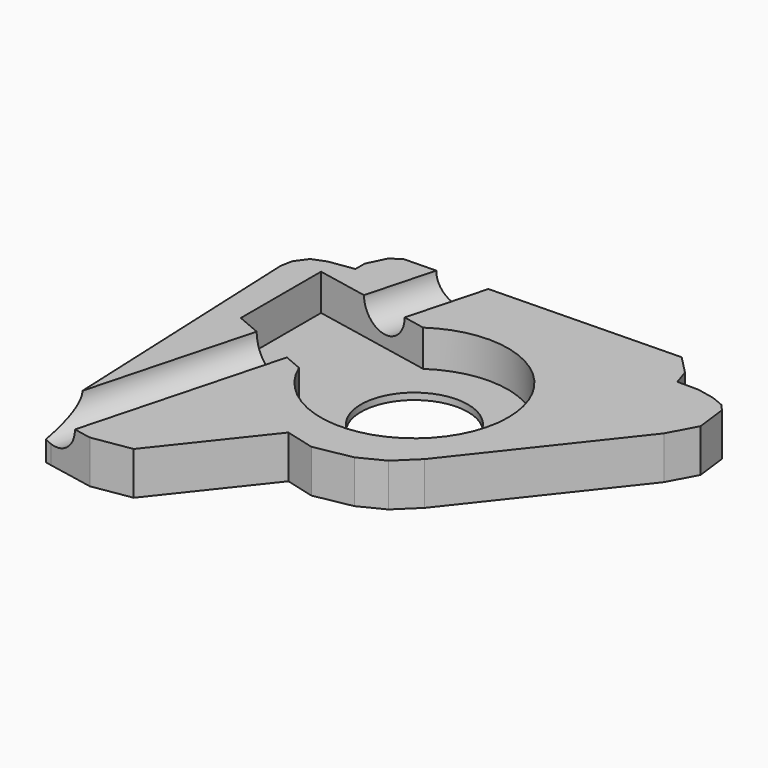
from build123d import *

# Parameters (mm, degrees)
F1_DEPTH  = 13
F2_R      = 16.193977
F3_DEPTH  = 13
F4_DEPTH  = 11
F9_R      = 7.442365
F10_DEPTH = 126.005636


with BuildPart() as f1:
    # F0 (on Top) → F1 (new body)
    with BuildSketch(Plane.XY):
        Polygon((-32.077711, -60.813792), (-8.803713, -31.388912), (0, -33.708788), (11.301869, -31.58224), (18.64814, -27.909102), (24.834473, -21.916091), (60.792536, 23.708114), (65.238968, 32.021001), (64.06498, 41.530453), (62.238194, 43.600813), (58.462832, 45.184027), (53.104255, 46.280101), (46.771396, 46.280101), (45.188177, 51.151533), (39.707817, 56.75368), (-42.984739, 54.926891), (-46.029385, 52.856531), (-48.708674, 47.376171), (-48.708674, 43.844383), (-56.259394, 42.74831), (-60.278326, 41.165095), (-62.835827, 37.633304), (-63.523754, 34.105126), (-59.529565, -59.653856), (-57.749115, -60.001009), (-43.858236, -62.709465), align=None)
    extrude(amount=F1_DEPTH)

    # F2 (on face) → F3 (cut, through all)
    with BuildSketch(Plane.XY.offset(13)):
        with Locations((-1.402867, 7.036958)):
            Circle(F2_R)
    extrude(amount=-F3_DEPTH, mode=Mode.SUBTRACT)

    # F2 (on face) → F4 (cut)
    with BuildSketch(Plane.XY.offset(13)):
        with BuildLine():
            ThreePointArc((-27.557551, -3.949325), (4.20068, -20.772503), (26.965529, 7.036958))
            ThreePointArc((26.965529, 7.036958), (11.817696, 32.136413), (-17.448869, 30.431225))
            ThreePointArc((-17.448869, 30.431225), (-28.619223, 15.0392), (-27.557551, -3.949325))
        make_face()
        with Locations((-1.402867, 7.036958)):
            Circle(F2_R, mode=Mode.SUBTRACT)
        with BuildLine():
            ThreePointArc((-27.557551, -3.949325), (-28.619223, 15.0392), (-17.448869, 30.431225))
            Line((-17.448869, 30.431225), (-54.205403, 37.718657))
            Line((-54.205403, 37.718657), (-54.205403, 7.342626))
            Line((-54.205403, 7.342626), (-27.557551, -3.949325))
        make_face()
    extrude(amount=-F4_DEPTH, mode=Mode.SUBTRACT)

    # F9 (on face) → F10 (cut, through all)
    with BuildSketch(Plane(origin=(12.679749, 47.321467, 0), x_dir=(0.965926, -0.258819, 0), z_dir=(-0.258819, -0.965926, 0))):
        with Locations((-38.978635, 13)):
            Circle(F9_R)
    extrude(amount=F10_DEPTH, mode=Mode.SUBTRACT)


solid = f1.part
